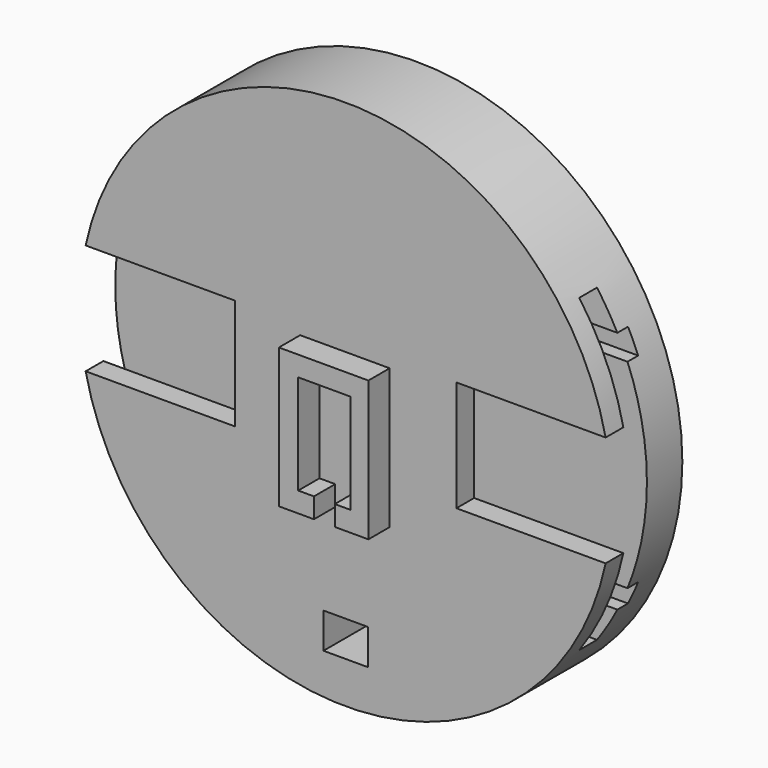
from build123d import *

# Parameters (mm, degrees)
F0_R      = 60
F1_DEPTH  = 20
F3_DEPTH  = 10
F4_W      = 5
F4_H      = 70
F5_DEPTH  = 60
F7_DEPTH  = 3
F8_W      = 3.5498722099
F8_H      = 4.546627143
F9_DEPTH  = 6
F10_W     = 10
F10_H     = 8
F11_DEPTH = 20.001


with BuildPart() as f1:
    # F0 (on Front) → F1 (new body)
    with BuildSketch(Plane.XZ):
        Circle(F0_R)
    extrude(amount=F1_DEPTH)

    # F2 (on face) → F3 (cut)
    with BuildSketch(Plane.XZ.offset(20)):
        with BuildLine():
            Line((-25, -12.5), (-25, 12.5))
            Line((-25, 12.5), (-58.6834729715, 12.5))
            ThreePointArc((-58.6834729715, 12.5), (-59.6699605258, 6.2845692656), (-60, 0))
            ThreePointArc((-60, 0), (-59.6699605258, -6.2845692656), (-58.6834729715, -12.5))
            Line((-58.6834729715, -12.5), (-25, -12.5))
        make_face()
        with BuildLine():
            Line((58.6834729715, 12.5), (25, 12.5))
            Line((25, 12.5), (25, -12.5))
            Line((25, -12.5), (58.6834729715, -12.5))
            ThreePointArc((58.6834729715, -12.5), (59.6699605258, -6.2845692656), (60, 0))
            ThreePointArc((60, 0), (59.6699605258, 6.2845692656), (58.6834729715, 12.5))
        make_face()
    extrude(amount=-F3_DEPTH, mode=Mode.SUBTRACT)

    # F4 (on Right) → F5 (cut, symmetric)
    with BuildSketch(Plane.YZ):
        with Locations((-12.5, 0)):
            Rectangle(F4_W, F4_H)
    extrude(amount=F5_DEPTH, both=True, mode=Mode.SUBTRACT)

    # F6 (on face) → F7 (cut)
    with BuildSketch(Plane.XZ.offset(10)):
        with BuildLine():
            Line((30, -22.5), (30, -25))
            Line((30, -25), (-30, -25))
            Line((-30, -25), (-30, -22.5))
            Line((-30, -22.5), (-55.6214886532, -22.5))
            ThreePointArc((-55.6214886532, -22.5), (-54.531492065, -25.0263136152), (-53.3268225193, -27.5))
            Line((-53.3268225193, -27.5), (0, -27.5))
            Line((0, -27.5), (53.3268225193, -27.5))
            ThreePointArc((53.3268225193, -27.5), (54.531492065, -25.0263136152), (55.6214886532, -22.5))
            Line((55.6214886532, -22.5), (30, -22.5))
        make_face()
        with BuildLine():
            Line((30, 25), (30, 22.5))
            Line((30, 22.5), (55.6214886532, 22.5))
            ThreePointArc((55.6214886532, 22.5), (54.531492065, 25.0263136152), (53.3268225193, 27.5))
            Line((53.3268225193, 27.5), (0, 27.5))
            Line((0, 27.5), (-53.3268225193, 27.5))
            ThreePointArc((-53.3268225193, 27.5), (-54.531492065, 25.0263136152), (-55.6214886532, 22.5))
            Line((-55.6214886532, 22.5), (-30, 22.5))
            Line((-30, 22.5), (-30, 25))
            Line((-30, 25), (30, 25))
        make_face()
        Polygon((0, 22.5), (30, 22.5), (30, 25), (-30, 25), (-30, 22.5), align=None)
        Polygon((-30, -25), (30, -25), (30, -22.5), (0, -22.5), (-30, -22.5), align=None)
    extrude(amount=-F7_DEPTH, mode=Mode.SUBTRACT)

    # F8 (on face) → F9 (join)
    with BuildSketch(Plane.XZ.offset(20)):
        Polygon((-5.9, -16.6), (-5.9, 5.9), (-10.2642504498, 5.9), (-10.2642504498, -21.146627143), (-2.3501277901, -21.146627143), (-2.3501277901, -16.6), align=None)
        Polygon((-10.2642504498, 5.9), (-5.9, 5.9), (5.9, 5.9), (5.9, -16.6), (5.9, -21.146627143), (9.9355150014, -21.146627143), (9.9355150014, 10.4155028239), (-10.2642504498, 10.4155028239), align=None)
        with Locations((4.1250638951, -18.8733135715)):
            Rectangle(F8_W, F8_H)
    extrude(amount=F9_DEPTH)

    # F10 (on face) → F11 (cut, through all)
    with BuildSketch(Plane.XZ.offset(20)):
        with Locations((0, -46.5785360177)):
            Rectangle(F10_W, F10_H)
    extrude(amount=-F11_DEPTH, mode=Mode.SUBTRACT)


solid = f1.part
